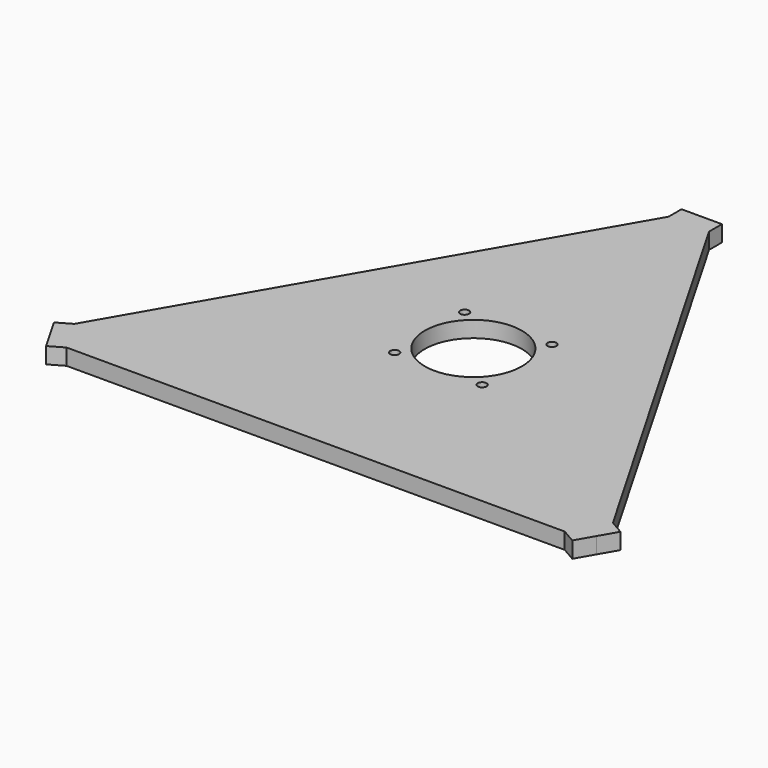
from build123d import *

# Parameters (mm, degrees)
F0_W     = 7.5
F0_H     = 6
F1_DEPTH = 6
F2_R     = 18
F2_R_2   = 1.65
F3_DEPTH = 6.001


with BuildPart() as f1:
    # F0 (on Top) → F1 (new body)
    with BuildSketch(Plane.XY):
        Polygon((0, 111.139927), (0, 0), (96.25, -55.569963), (100, -49.074773), (7.5, 111.139927), align=None)
        Polygon((-96.25, -55.569963), (0, 0), (0, 111.139927), (-7.5, 111.139927), (-100, -49.074773), align=None)
        with Locations((3.75, 114.139927)):
            Rectangle(F0_W, F0_H)
        with Locations((-3.75, 114.139927)):
            Rectangle(F0_W, F0_H)
        Polygon((96.25, -55.569963), (0, 0), (-96.25, -55.569963), (-92.5, -62.065154), (92.5, -62.065154), align=None)
        Polygon((-101.446152, -58.569963), (-96.25, -55.569963), (-100, -49.074773), (-105.196152, -52.074773), align=None)
        Polygon((-92.5, -62.065154), (-96.25, -55.569963), (-101.446152, -58.569963), (-97.696152, -65.065154), align=None)
        Polygon((100, -49.074773), (96.25, -55.569963), (101.446152, -58.569963), (105.196152, -52.074773), align=None)
        Polygon((101.446152, -58.569963), (96.25, -55.569963), (92.5, -62.065154), (97.696152, -65.065154), align=None)
    extrude(amount=F1_DEPTH)

    # F2 (on face) → F3 (cut, through all)
    with BuildSketch(Plane.XY.offset(6)):
        with Locations((0, 11.139927)):
            Circle(F2_R)
        with Locations((-16.225, 27.364927)):
            Circle(F2_R_2)
        with Locations((16.225, 27.364927)):
            Circle(F2_R_2)
        with Locations((16.225, -5.085073)):
            Circle(F2_R_2)
        with Locations((-16.225, -5.085073)):
            Circle(F2_R_2)
    extrude(amount=-F3_DEPTH, mode=Mode.SUBTRACT)


solid = f1.part
